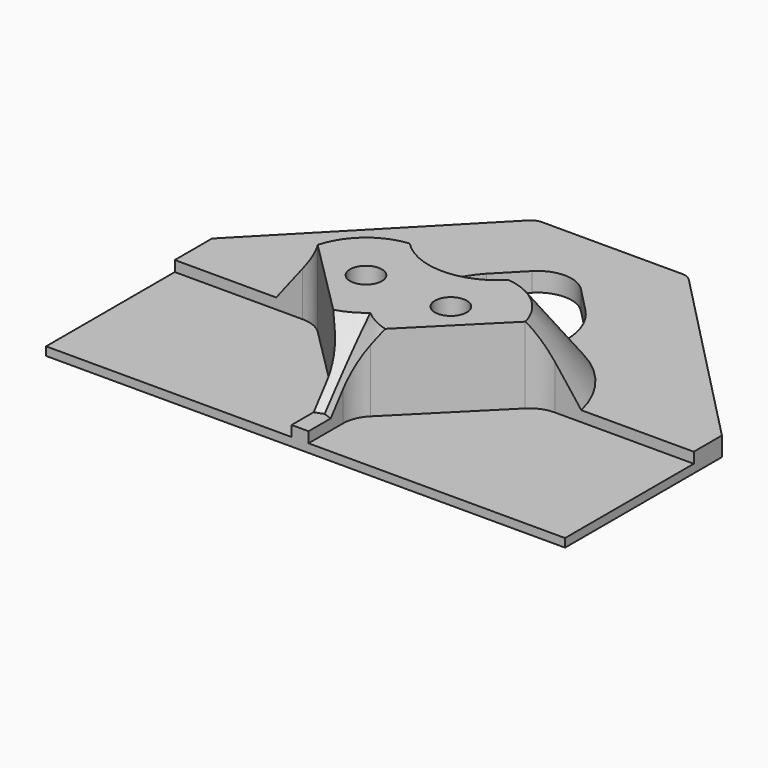
from build123d import *

# Parameters (mm, degrees)
CYLINDER_R       = 1.5
CYLINDER_DEPTH   = 8
ARRAY001_COUNT   = 4
ARRAY004_COUNT   = 4
EXTRUDE003_DEPTH = 1.8
EXTRUDE002_DEPTH = 0.8
ARRAY006_COUNT   = 4
EXTRUDE_DEPTH    = 1
ARRAY002_COUNT   = 4
EXTRUDE006_DEPTH = 1.8
EXTRUDE004_DEPTH = 10
EXTRUDE001_DEPTH = 8
ARRAY005_COUNT   = 4
ARRAY_COUNT      = 4
ARRAY003_COUNT   = 4
SKETCH003_W      = 48.922418
SKETCH003_H      = 39.225639
EXTRUDE005_DEPTH = 10


with BuildPart() as holes:
    # Cylinder → Cylinder (new body)
    with BuildSketch(Plane(origin=(4, 4, 0), x_dir=(1, 0, 0), z_dir=(0, 0, 1))):
        Circle(CYLINDER_R)
    extrude(amount=CYLINDER_DEPTH)

    # Array001: holes ×4 about axis
    array001_axis = Axis((50, 50, 0), (0, 0, 1))


with BuildPart() as holes_1:
    add(holes.part)
    for i in range(1, ARRAY001_COUNT):
        add(holes.part.rotate(array001_axis, i * 360 / ARRAY001_COUNT))

    # Array004: holes ×4 about axis
    array004_axis = Axis((0, 0, 0), (0, 0, 1))


with BuildPart() as holes_2:
    add(holes_1.part)
    for i in range(1, ARRAY004_COUNT):
        add(holes_1.part.rotate(array004_axis, i * 360 / ARRAY004_COUNT))


with BuildPart() as top_hook:
    # Sketch002 → Extrude003 (new body)
    with BuildSketch(Plane.XY):
        with BuildLine():
            Line((26.654903, 100), (7.555178, 119.595928))
            ThreePointArc((7.555178, 119.595928), (7.116991, 119.89485), (6.597081, 120))
            Line((6.597081, 120), (0, 120))
            Line((-6.597081, 120), (0, 120))
            ThreePointArc((-6.597081, 120), (-7.116991, 119.89485), (-7.555178, 119.595928))
            Line((-7.555178, 119.595928), (-26.654903, 100))
            Line((-26.654903, 100), (0, 100))
            Line((0, 100), (26.654903, 100))
        make_face()
        with BuildLine():
            ThreePointArc((-4.654749, 111.036883), (0, 100), (4.654749, 111.036883))
            Line((2.294641, 113.458306), (4.654749, 111.036883))
            ThreePointArc((2.294641, 113.458306), (0, 114.426059), (-2.294641, 113.458306))
            Line((-4.654749, 111.036883), (-2.294641, 113.458306))
        make_face(mode=Mode.SUBTRACT)
    extrude(amount=EXTRUDE003_DEPTH)


with BuildPart() as extrude002:
    # Sketch001 → Extrude002 (new body)
    with BuildSketch(Plane.XY):
        with BuildLine():
            Line((0, 100), (96, 100))
            ThreePointArc((98.828427, 98.828427), (97.530734, 99.695518), (96, 100))
            Line((96, 96), (98.828427, 98.828427))
            Line((4, 4), (96, 96))
            Line((0, 0), (4, 4))
            Line((0, 0), (0, 100))
        make_face()
    extrude(amount=EXTRUDE002_DEPTH)


with BuildPart() as bottom_plate:
    # Part__Mirroring002: instance of Extrude002
    add(extrude002.part.mirror(Plane(origin=(0, 0, 0), x_dir=(1, 0, 0), z_dir=(0, 1, 0))))

    # Fusion003: union Extrude002
    add(extrude002.part)

    # Array006: bottom_plate ×4 about axis
    array006_axis = Axis((0, 0, 0), (0, 0, 1))


with BuildPart() as bottom_plate_1:
    add(bottom_plate.part)
    for i in range(1, ARRAY006_COUNT):
        add(bottom_plate.part.rotate(array006_axis, i * 360 / ARRAY006_COUNT))


with BuildPart() as extrude_body:
    # Sketch → Extrude (new body)
    with BuildSketch(Plane.XY):
        with BuildLine():
            Line((0, 100), (96, 100))
            ThreePointArc((98.828427, 98.828427), (97.530734, 99.695518), (96, 100))
            Line((96, 96), (98.828427, 98.828427))
            Line((4, 4), (96, 96))
            Line((0, 0), (4, 4))
            Line((0, 0), (0, 100))
        make_face()
        with BuildLine():
            Line((0.8, 10.565655), (0.8, 87.314719))
            ThreePointArc((1.67868, 89.436039), (1.028361, 88.462769), (0.8, 87.314719))
            Line((9.763961, 97.52132), (1.67868, 89.436039))
            ThreePointArc((11.885281, 98.4), (10.737231, 98.171639), (9.763961, 97.52132))
            Line((11.885281, 98.4), (90.032525, 98.4))
            ThreePointArc((92.151931, 93.283302), (92.801662, 96.549722), (90.032525, 98.4))
            Line((6.905361, 8.036732), (92.151931, 93.283302))
            ThreePointArc((0.8, 10.565655), (3.007794, 7.261458), (6.905361, 8.036732))
        make_face(mode=Mode.SUBTRACT)
    extrude(amount=EXTRUDE_DEPTH)


with BuildPart() as extrude_body_1:
    # Extrude placement: moved
    add(extrude_body.part.moved(Location((0, 0, 0.8))))


with BuildPart() as fusion002:
    # Part__Mirroring: instance of Extrude body
    add(extrude_body_1.part.mirror(Plane(origin=(0, 0, 0), x_dir=(1, 0, 0), z_dir=(0, 1, 0))))

    # Fusion: union Extrude body
    add(extrude_body_1.part)

    # Array002: Fusion002 ×4 about axis
    array002_axis = Axis((0, 0, 0), (0, 0, 1))


with BuildPart() as fusion002_1:
    add(fusion002.part)
    for i in range(1, ARRAY002_COUNT):
        add(fusion002.part.rotate(array002_axis, i * 360 / ARRAY002_COUNT))

    # Fusion002: union bottom_plate
    add(bottom_plate_1.part)


with BuildPart() as extrude006:
    # Sketch004 → Extrude006 (new body)
    with BuildSketch(Plane.XY):
        with BuildLine():
            Line((-65.833333, 100), (-50, 100))
            Line((-50, 100), (-50, 120))
            Line((-71.666667, 120), (-50, 120))
            ThreePointArc((-71.666667, 120), (-75, 116.666667), (-71.666667, 113.333333))
            Line((-65.833333, 113.333333), (-71.666667, 113.333333))
            ThreePointArc((-62.5, 110), (-63.476311, 112.357023), (-65.833333, 113.333333))
            Line((-62.5, 103.333333), (-62.5, 110))
            ThreePointArc((-65.833333, 100), (-63.476311, 100.976311), (-62.5, 103.333333))
        make_face()
    extrude(amount=EXTRUDE006_DEPTH)


with BuildPart() as part_mirroring003:
    # Part__Mirroring003: instance of Extrude006
    add(extrude006.part.mirror(Plane(origin=(-50, 0, 0), x_dir=(0, -1, 0), z_dir=(1, 0, 0))))


with BuildPart() as cable_hook:
    # Fusion006 base: copy of Extrude006
    add(extrude006.part)

    # Fusion006: union Part__Mirroring003
    add(part_mirroring003.part)


with BuildPart() as hook_zone:
    # Sketch002 → Extrude004 (new body)
    with BuildSketch(Plane.XY):
        with BuildLine():
            Line((26.654903, 100), (7.555178, 119.595928))
            ThreePointArc((7.555178, 119.595928), (7.116991, 119.89485), (6.597081, 120))
            Line((6.597081, 120), (0, 120))
            Line((-6.597081, 120), (0, 120))
            ThreePointArc((-6.597081, 120), (-7.116991, 119.89485), (-7.555178, 119.595928))
            Line((-7.555178, 119.595928), (-26.654903, 100))
            Line((-26.654903, 100), (0, 100))
            Line((0, 100), (26.654903, 100))
        make_face()
        with BuildLine():
            ThreePointArc((-4.654749, 111.036883), (0, 100), (4.654749, 111.036883))
            Line((2.294641, 113.458306), (4.654749, 111.036883))
            ThreePointArc((2.294641, 113.458306), (0, 114.426059), (-2.294641, 113.458306))
            Line((-4.654749, 111.036883), (-2.294641, 113.458306))
        make_face(mode=Mode.SUBTRACT)
    extrude(amount=EXTRUDE004_DEPTH)


with BuildPart() as extrude001:
    # Sketch → Extrude001 (new body)
    with BuildSketch(Plane.XY):
        with BuildLine():
            Line((0, 100), (96, 100))
            ThreePointArc((98.828427, 98.828427), (97.530734, 99.695518), (96, 100))
            Line((96, 96), (98.828427, 98.828427))
            Line((4, 4), (96, 96))
            Line((0, 0), (4, 4))
            Line((0, 0), (0, 100))
        make_face()
        with BuildLine():
            Line((0.8, 10.565655), (0.8, 87.314719))
            ThreePointArc((1.67868, 89.436039), (1.028361, 88.462769), (0.8, 87.314719))
            Line((9.763961, 97.52132), (1.67868, 89.436039))
            ThreePointArc((11.885281, 98.4), (10.737231, 98.171639), (9.763961, 97.52132))
            Line((11.885281, 98.4), (90.032525, 98.4))
            ThreePointArc((92.151931, 93.283302), (92.801662, 96.549722), (90.032525, 98.4))
            Line((6.905361, 8.036732), (92.151931, 93.283302))
            ThreePointArc((0.8, 10.565655), (3.007794, 7.261458), (6.905361, 8.036732))
        make_face(mode=Mode.SUBTRACT)
    extrude(amount=EXTRUDE001_DEPTH)


with BuildPart() as zone_to_cut:
    # Part__Mirroring001: instance of Extrude001
    add(extrude001.part.mirror(Plane(origin=(0, 0, 0), x_dir=(1, 0, 0), z_dir=(0, 1, 0))))

    # Fusion001: union Extrude001
    add(extrude001.part)

    # Array005: zone_to_cut ×4 about axis
    array005_axis = Axis((0, 0, 0), (0, 0, 1))


with BuildPart() as zone_to_cut_1:
    add(zone_to_cut.part)
    for i in range(1, ARRAY005_COUNT):
        add(zone_to_cut.part.rotate(array005_axis, i * 360 / ARRAY005_COUNT))

    # Fusion004: union hook_zone
    add(hook_zone.part)


with BuildPart() as cut:
    # Cone → Cone (revolve)
    with BuildSketch(Plane(origin=(4, 4, 0), x_dir=(1, 0, 0), z_dir=(0, -1, 0))):
        Polygon((0, 0), (12, 0), (6, 8), (0, 8), align=None)
    revolve(axis=Axis((4, 4, 0), (0, 0, 1)))

    # Array: Cut ×4 about axis
    array_axis = Axis((50, 50, 0), (0, 0, 1))


with BuildPart() as cut_1:
    add(cut.part)
    for i in range(1, ARRAY_COUNT):
        add(cut.part.rotate(array_axis, i * 360 / ARRAY_COUNT))

    # Array003: Cut ×4 about axis
    array003_axis = Axis((0, 0, 0), (0, 0, 1))


with BuildPart() as cut_2:
    add(cut_1.part)
    for i in range(1, ARRAY003_COUNT):
        add(cut_1.part.rotate(array003_axis, i * 360 / ARRAY003_COUNT))

    # Common001: intersect zone_to_cut
    add(zone_to_cut_1.part, mode=Mode.INTERSECT)

    # Fusion005: union top_hook, Fusion002, cable_hook
    add(top_hook.part)
    add(fusion002_1.part)
    add(cable_hook.part)

    # Cut: cut holes
    add(holes_2.part, mode=Mode.SUBTRACT)


with BuildPart() as test_print:
    # Sketch003 → Extrude005 (new body)
    with BuildSketch(Plane.XY):
        with Locations((0.518458, 102.847819)):
            Rectangle(SKETCH003_W, SKETCH003_H)
    extrude(amount=EXTRUDE005_DEPTH)

    # Common: intersect Cut
    add(cut_2.part, mode=Mode.INTERSECT)


solid = test_print.part
